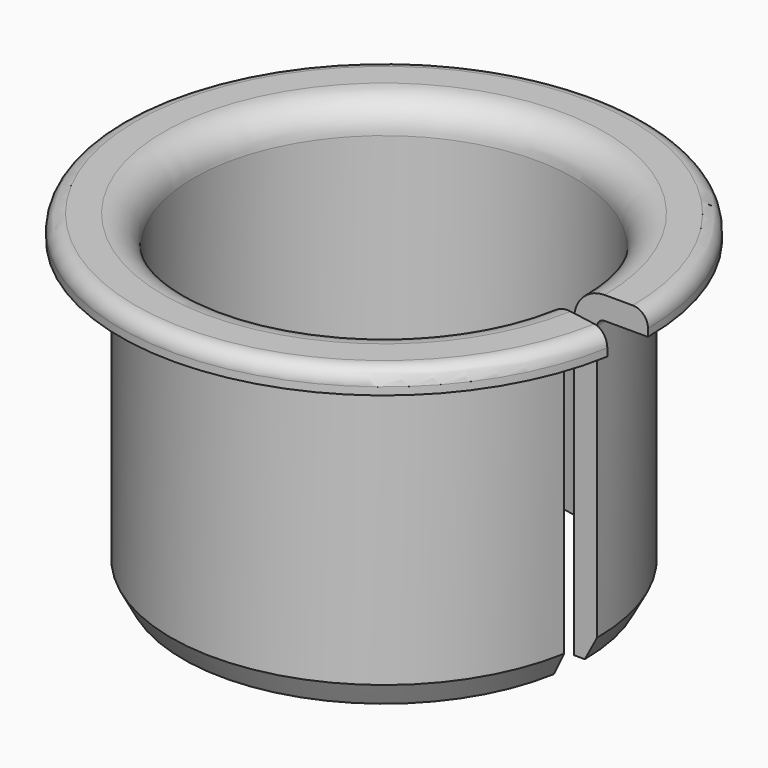
from build123d import *

# Parameters (mm, degrees)
F1_ANGLE = 350


with BuildPart() as f1:
    # F0 (on Front) → F1 (revolve)
    with BuildSketch(Plane.XZ):
        with BuildLine():
            Line((12.5, 19.5), (12.5, 0))
            Line((12.5, 0), (13.2, 0))
            Line((13.2, 0), (14, 1.5))
            Line((14, 1.5), (14, 19.5))
            ThreePointArc((14, 19.5), (14.146447, 19.853553), (14.5, 20))
            Line((14.5, 20), (17.35, 20))
            Line((17.35, 20), (17.35, 20.5))
            ThreePointArc((17.35, 20.5), (17.057107, 21.207107), (16.35, 21.5))
            Line((16.35, 21.5), (14.5, 21.5))
            ThreePointArc((14.5, 21.5), (13.085786, 20.914214), (12.5, 19.5))
        make_face()
    revolve(axis=Axis((0, 0, 24.386095), (0, 0, 1)), revolution_arc=F1_ANGLE)


solid = f1.part
